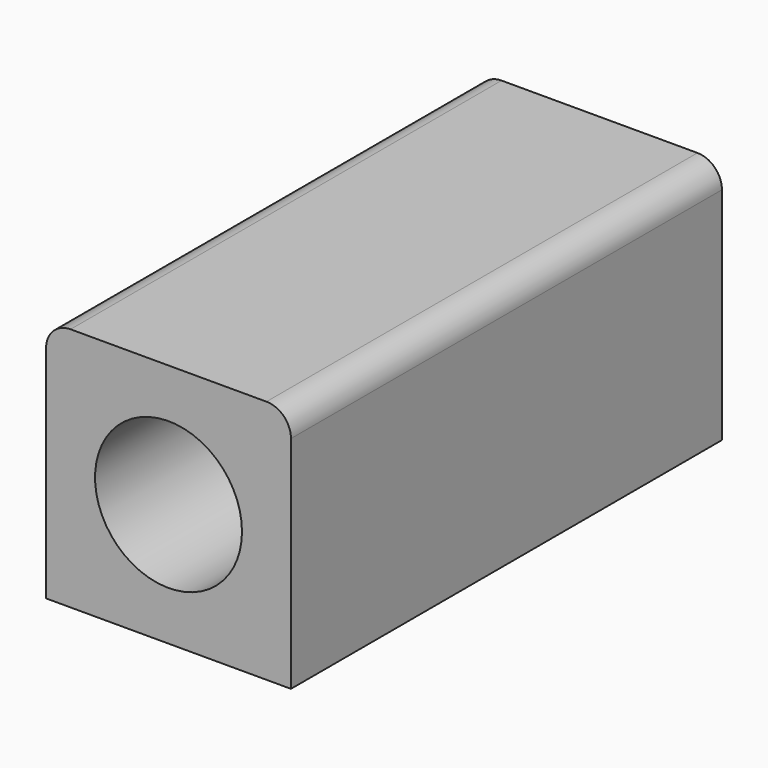
from build123d import *

# Parameters (mm, degrees)
F0_W     = 50
F0_H     = 50
F0_R     = 15
F1_DEPTH = 110
F2_R     = 5


with BuildPart() as f1:
    # F0 (on Front) → F1 (new body)
    with BuildSketch(Plane.XZ):
        with Locations((-17.082195, 10.81785)):
            Rectangle(F0_W, F0_H)
        with Locations((-17.082195, 10.81785)):
            Circle(F0_R, mode=Mode.SUBTRACT)
    extrude(amount=F1_DEPTH)

    # F2
    f2_edges = [f1.edges().sort_by_distance(p)[0] for p in [
        (7.917805, -55, 35.81785),
        (-42.082195, -55, 35.81785),
    ]]
    fillet(f2_edges, radius=F2_R)


solid = f1.part
